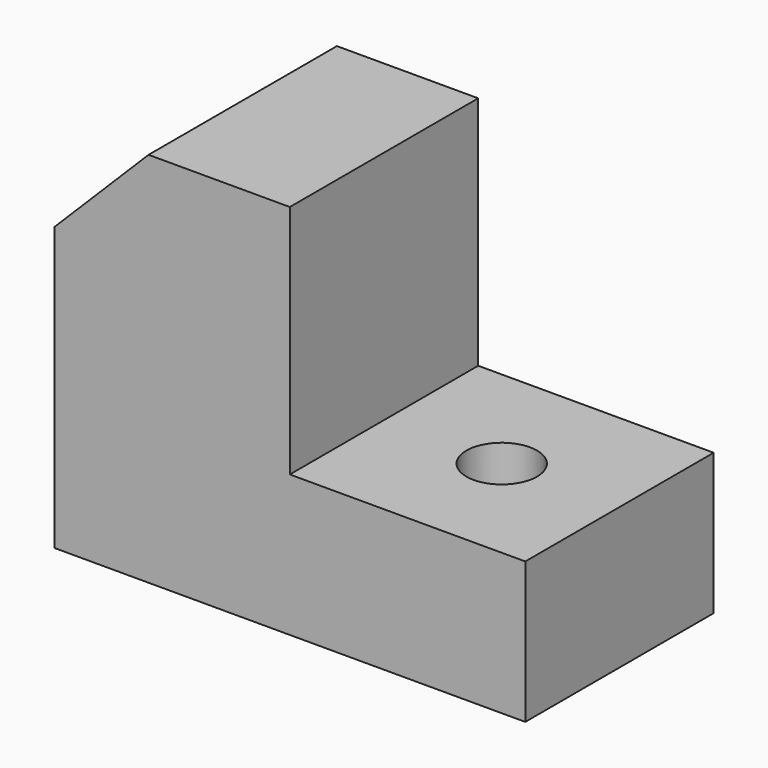
from build123d import *

# Parameters (mm, degrees)
F0_W     = 100
F0_H     = 50
F1_DEPTH = 80
F2_W     = 50
F2_H     = 50
F3_DEPTH = 50
F5_DEPTH = 50
F6_R     = 7.5
F7_DEPTH = 30


with BuildPart() as f1:
    # F0 (on Top) → F1 (new body)
    with BuildSketch(Plane.XY):
        with Locations((50, 25)):
            Rectangle(F0_W, F0_H)
    extrude(amount=F1_DEPTH)

    # F2 (on face) → F3 (cut, through all)
    with BuildSketch(Plane.XZ):
        with Locations((75, 55)):
            Rectangle(F2_W, F2_H)
    extrude(amount=-F3_DEPTH, mode=Mode.SUBTRACT)

    # F4 (on face) → F5 (cut, through all)
    with BuildSketch(Plane.XZ):
        Polygon((20, 80), (0, 80), (0, 60), align=None)
    extrude(amount=-F5_DEPTH, mode=Mode.SUBTRACT)

    # F6 (on face) → F7 (cut, through all)
    with BuildSketch(Plane.XY.offset(30)):
        with Locations((75, 25)):
            Circle(F6_R)
    extrude(amount=-F7_DEPTH, mode=Mode.SUBTRACT)


solid = f1.part
